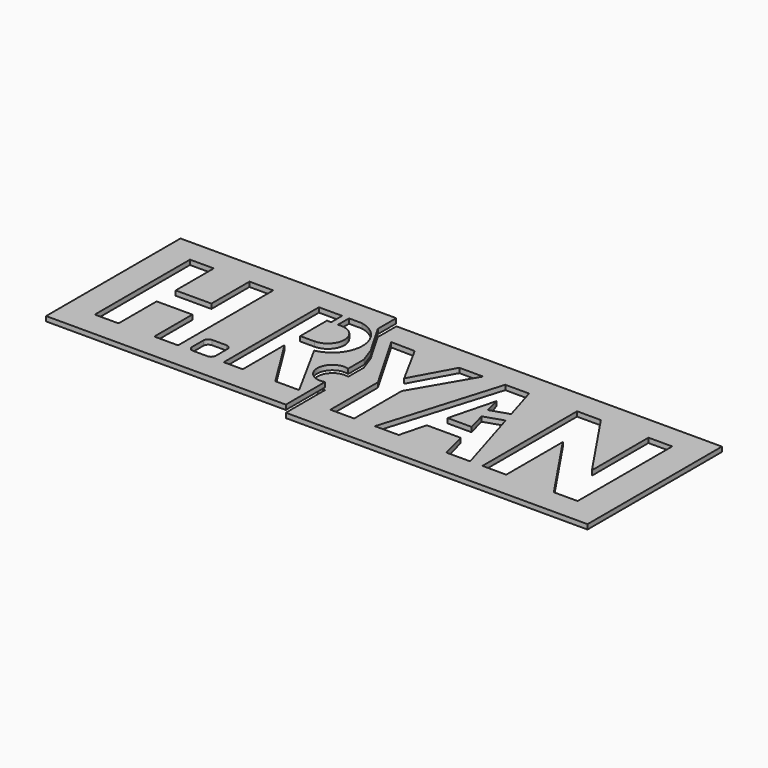
from build123d import *

# Parameters (mm, degrees)
F1_DEPTH  = 25
F4_W      = 227.4575755
F4_H      = 70.5800577998
F5_DEPTH  = 20
F6_DEPTH  = 60.1
F7_W      = 2.8521483764
F7_H      = 8.2712303847
F8_DEPTH  = 20
F9_DEPTH  = 18
F11_DEPTH = 5
F12_W     = 70.5800577998
F12_H     = 1
F13_DEPTH = 150.9
F15_DEPTH = 25


with BuildPart() as f1:
    # F0 (on Top) → F1 (new body)
    with BuildSketch(Plane.XY):
        Polygon((-46.9723631442, 28.0651573092), (-56.9723631442, 28.0651573092), (-56.9723631442, -21.9348426908), (-46.9723631442, -21.9348426908), (-46.9723631442, -1.9348426908), (-31.9723631442, -1.9348426908), (-31.9723631442, -21.9348426908), (-21.9723631442, -21.9348426908), (-21.9723631442, 28.0651573092), (-31.9723631442, 28.0651573092), (-31.9723631442, 8.0651573092), (-46.9723631442, 8.0651573092), align=None)
    extrude(amount=F1_DEPTH)



with BuildPart() as f1b:
    # F0 (on Top) → F1, piece 2 (new body)
    with BuildSketch(Plane.XY):
        with BuildLine():
            Line((10, 28.0651573092), (0, 28.0651573092))
            Line((0, 28.0651573092), (0, -21.9348426908))
            Line((0, -21.9348426908), (8, -21.9348426908))
            Line((8, -21.9348426908), (8, 0))
            Line((8, 0), (21.6713771224, -21.9348426908))
            Line((21.6713771224, -21.9348426908), (31.6713771224, -21.9348426908))
            Line((31.6713771224, -21.9348426908), (18, 3.0651573092))
            ThreePointArc((18, 3.0651573092), (28.3333292247, 15.5651573092), (18, 28.0651573092))
            Line((18, 28.0651573092), (10, 28.0651573092))
        make_face()
        with BuildLine():
            Line((14, 8.2439472899), (8, 8.2439472899))
            Line((8, 8.2439472899), (8, 22.2926959395))
            Line((8, 22.2926959395), (14, 22.2926959395))
            ThreePointArc((14, 22.2926959395), (21.0243743248, 15.2683216147), (14, 8.2439472899))
        make_face(mode=Mode.SUBTRACT)
    extrude(amount=F1_DEPTH)


with BuildPart() as f1c:
    # F0 (on Top) → F1, piece 3 (new body)
    with BuildSketch(Plane.XY):
        with BuildLine():
            ThreePointArc((-17.6843942031, -19.9348426908), (-17.0986077655, -21.3490562532), (-15.6843942031, -21.9348426908))
            Line((-15.6843942031, -21.9348426908), (-9.6843942031, -21.9348426908))
            ThreePointArc((-9.6843942031, -21.9348426908), (-8.2701806408, -21.3490562532), (-7.6843942031, -19.9348426908))
            Line((-7.6843942031, -19.9348426908), (-7.6843942031, -13.9348426908))
            ThreePointArc((-7.6843942031, -13.9348426908), (-8.2701806408, -12.5206291285), (-9.6843942031, -11.9348426908))
            Line((-9.6843942031, -11.9348426908), (-15.6843942031, -11.9348426908))
            ThreePointArc((-15.6843942031, -11.9348426908), (-17.0986077655, -12.5206291285), (-17.6843942031, -13.9348426908))
            Line((-17.6843942031, -13.9348426908), (-17.6843942031, -19.9348426908))
        make_face()
    extrude(amount=F1_DEPTH)


with BuildPart() as f1d:
    # F0 (on Top) → F1, piece 4 (new body)
    with BuildSketch(Plane.XY):
        Polygon((44.7931885719, 3.0651573092), (44.7931885719, -21.9348426908), (54.7931885719, -21.9348426908), (54.7931885719, 3.0651573092), (69.2160581468, 27.764311542), (59.2160581468, 27.764311542), (49.7931885719, 10.5728954077), (40.3677413874, 27.9102737799), (30.3689409047, 28.0651573092), align=None)
    extrude(amount=F1_DEPTH)


with BuildPart() as f1e:
    # F0 (on Top) → F1, piece 5 (new body)
    with BuildSketch(Plane.XY):
        Polygon((86.8261525035, 27.764311542), (71.8261525035, -21.9348426908), (81.8261525035, -21.9348426908), (84.6922499531, -10.8048464541), (98.9600550539, -10.8048464541), (101.8261525035, -21.9348426908), (111.8261525035, -21.9348426908), (96.8261525035, 27.764311542), (91.8261525035, 27.764311542), align=None)
        Polygon((86.8261525035, -2.5182031095), (91.8261525035, 16.8984364718), (96.8261525035, -2.5182031095), align=None, mode=Mode.SUBTRACT)
    extrude(amount=F1_DEPTH)


with BuildPart() as f1f:
    # F0 (on Top) → F1, piece 6 (new body)
    with BuildSketch(Plane.XY):
        Polygon((116.9819906354, 27.764311542), (116.9819906354, -21.9348426908), (126.9819906354, -21.9348426908), (126.9819906354, 7.764311542), (146.9819906354, -21.9348426908), (156.9819906354, -21.9348426908), (156.9819906354, 27.764311542), (146.9819906354, 27.764311542), (146.9819906354, -1.9348426908), (126.9819906354, 27.764311542), align=None)
    extrude(amount=F1_DEPTH)


with BuildPart() as f1e_1:
    # F2: moved
    add(f1e.part.moved(Location((-8.3, 0, 0))))


with BuildPart() as f1f_1:
    # F2: moved
    add(f1f.part.moved(Location((-8.3, 0, 0))))


with BuildPart() as f1d_1:
    # F3: moved
    add(f1d.part.moved(Location((-2.8, 0, 0))))


with BuildPart() as f1e_2:
    # F3: moved
    add(f1e_1.part.moved(Location((-2.8, 0, 0))))


with BuildPart() as f1f_2:
    # F3: moved
    add(f1f_1.part.moved(Location((-2.8, 0, 0))))


with BuildPart() as f1b_1:
    # F3: moved
    add(f1b.part.moved(Location((-2.8, 0, 0))))


with BuildPart() as f1_1:
    add(f1.part)

    add(f1b_1.part)  # F5 merges F1b

    add(f1c.part)  # F5 merges F1c

    add(f1d_1.part)  # F5 merges F1d

    add(f1e_2.part)  # F5 merges F1e

    add(f1f_2.part)  # F5 merges F1f
    # F4 (on Top) → F5 (join)
    with BuildSketch(Plane.XY):
        with Locations((44.937197119, 2.5689788163)):
            Rectangle(F4_W, F4_H)
    extrude(amount=F5_DEPTH)

    # F6 (cut): faces of the model
    f6_faces = [f1_1.faces().sort_by_distance(p)[0] for p in [
        (-39.4723631442, 3.0651573092, 25),
        (-12.6843942031, -16.9348426908, 25),
        (9.9555053028, 3.3304867819, 25),
        (46.9841841079, 7.0402084127, 25),
        (68.8369069767, 2.7303989527, 25),
        (125.8819906354, 2.9147344256, 25),
    ]]
    extrude(f6_faces, amount=-F6_DEPTH, mode=Mode.SUBTRACT)

    # F7 (on Top) → F8 (join)
    with BuildSketch(Plane.XY):
        with Locations((8.402756881, 25.4406826571)):
            Rectangle(F7_W, F7_H)
        Polygon((92.340439558, 13.3704673499), (81.9505527616, 9.963946417), (82.3234398778, 4.9261620448), (93.8680427637, 8.7112784915), align=None)
    extrude(amount=F8_DEPTH)

    # F9 (cut): a face of the model
    f9_faces = [f1_1.faces().sort_by_distance(p)[0] for p in [
        (44.937197119, 35.4774432469, 20),
    ]]
    extrude(f9_faces, amount=-F9_DEPTH, mode=Mode.SUBTRACT)

    # F10 (on face) → F11 (join)
    with BuildSketch(Plane.XY.offset(2)):
        with BuildLine():
            Line((158.665984869, 37.8590077162), (21.9146478921, 37.8590077162))
            Line((21.9146478921, 37.8590077162), (21.9146478921, 28.0651573092))
            Line((21.9146478921, 28.0651573092), (29.6798946739, 14.6064886823))
            Line((29.6798946739, 14.6064886823), (31.9397747517, 8.2439472899))
            Line((31.9397747517, 8.2439472899), (31.9397747517, 0))
            ThreePointArc((31.9397747517, 0), (23.9279042936, -6.1192756984), (31.9397747517, -12.2385513969))
            Line((31.9397747517, -12.2385513969), (31.9397747517, -32.7210500836))
            Line((31.9397747517, -32.7210500836), (158.665984869, -32.7210500836))
            Line((158.665984869, -32.7210500836), (158.665984869, 37.8590077162))
        make_face()
        Polygon((41.9931885719, -21.9348426908), (41.9931885719, 3.0651573092), (27.5689409047, 28.0651573092), (37.5677413874, 27.9102737799), (46.9931885719, 10.5728954077), (56.4160581468, 27.764311542), (66.4160581468, 27.764311542), (51.9931885719, 3.0651573092), (51.9931885719, -21.9348426908), align=None, mode=Mode.SUBTRACT)
        Polygon((70.7261525035, -21.9348426908), (60.7261525035, -21.9348426908), (75.7261525035, 27.764311542), (85.7261525035, 27.764311542), (90.2748478691, 12.6932240396), (82.4681591424, 10.1336534606), (80.7261525035, 16.8984364718), (75.7261525035, -2.5182031095), (85.7261525035, -2.5182031095), (83.6934740995, 5.3753536815), (91.6919958377, 7.9978203423), (100.7261525035, -21.9348426908), (90.7261525035, -21.9348426908), (87.8600550539, -10.8048464541), (73.5922499531, -10.8048464541), align=None, mode=Mode.SUBTRACT)
        Polygon((105.8819906354, -21.9348426908), (105.8819906354, 27.764311542), (115.8819906354, 27.764311542), (135.8819906354, -1.9348426908), (135.8819906354, 27.764311542), (145.8819906354, 27.764311542), (145.8819906354, -21.9348426908), (135.8819906354, -21.9348426908), (115.8819906354, 7.764311542), (115.8819906354, -21.9348426908), align=None, mode=Mode.SUBTRACT)
    extrude(amount=-F11_DEPTH)

    # F12 (on face) → F13 (cut)
    with BuildSketch(Plane.YZ.offset(158.665984869)):
        with Locations((2.5689788163, -0.5)):
            Rectangle(F12_W, F12_H)
    extrude(amount=-F13_DEPTH, mode=Mode.SUBTRACT)

    # F14 (on face) → F15 (cut)
    with BuildSketch(Plane(origin=(0, 0, 0), x_dir=(1, 0, 0), z_dir=(0, 0, -1))):
        with BuildLine():
            Line((21.8506939709, -28.2046720386), (21.8506939709, -37.8590077162))
            Line((21.8506939709, -37.8590077162), (158.665984869, -37.8590077162))
            Line((158.665984869, -37.8590077162), (158.665984869, 32.7210500836))
            Line((158.665984869, 32.7210500836), (31.9340899587, 32.7210500836))
            Line((31.9340899587, 32.7210500836), (31.9340899587, 12.1531756595))
            ThreePointArc((31.9340899587, 12.1531756595), (23.8061123839, 6.0765878297), (31.9340899587, 0))
            Line((31.9340899587, 0), (31.9340899587, -8.246445097))
            Line((31.9340899587, -8.246445097), (29.6203736216, -14.7349052131))
            Line((29.6203736216, -14.7349052131), (21.8506939709, -28.2046720386))
        make_face()
        Polygon((41.9931885719, -3.0651573092), (41.9931885719, 21.9348426908), (51.9931885719, 21.9348426908), (51.9931885719, -3.0651573092), (66.4160581468, -27.764311542), (56.4160581468, -27.764311542), (46.9931885719, -10.5728954077), (37.5677413874, -27.9102737799), (27.5689409047, -28.0651573092), align=None, mode=Mode.SUBTRACT)
        Polygon((60.7261525035, 21.9348426908), (70.7261525035, 21.9348426908), (73.5922499531, 10.8048464541), (87.8600550539, 10.8048464541), (90.7261525035, 21.9348426908), (100.7261525035, 21.9348426908), (91.6919958377, -7.9978203423), (83.6934740995, -5.3753536815), (85.7261525035, 2.5182031095), (75.7261525035, 2.5182031095), (80.7261525035, -16.8984364718), (82.4681591424, -10.1336534606), (90.2748478691, -12.6932240396), (85.7261525035, -27.764311542), (75.7261525035, -27.764311542), align=None, mode=Mode.SUBTRACT)
        Polygon((105.8819906354, -27.764311542), (105.8819906354, 21.9348426908), (115.8819906354, 21.9348426908), (115.8819906354, -7.764311542), (135.8819906354, 21.9348426908), (145.8819906354, 21.9348426908), (145.8819906354, -27.764311542), (135.8819906354, -27.764311542), (135.8819906354, 1.9348426908), (115.8819906354, -27.764311542), align=None, mode=Mode.SUBTRACT)
    extrude(amount=-F15_DEPTH, mode=Mode.SUBTRACT)


solid = f1_1.part
